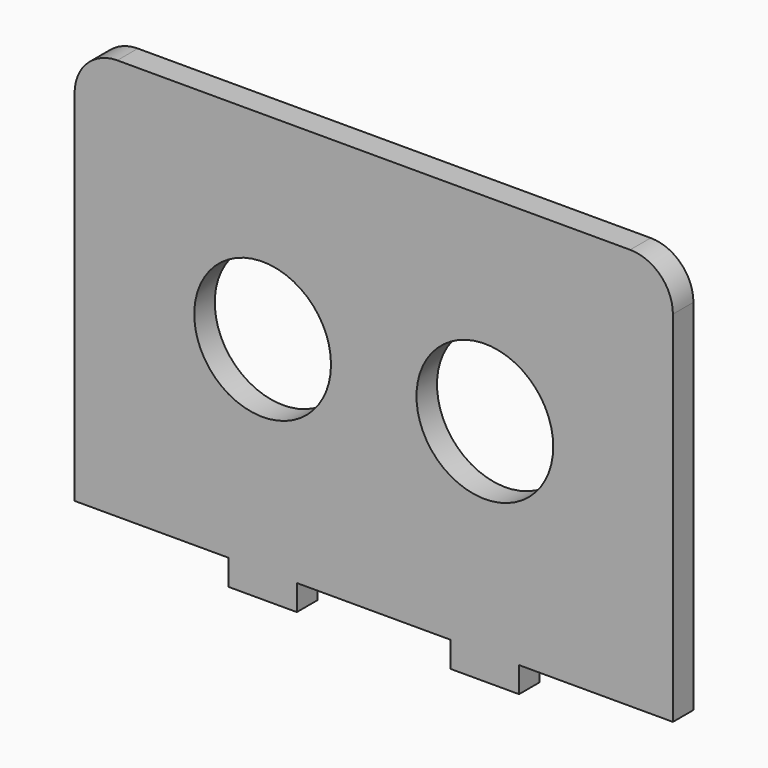
from build123d import *

# Parameters (mm, degrees)
F0_R     = 8
F1_DEPTH = 3
F2_DEPTH = 25


with BuildPart() as f1:
    # F0 (on Front) → F1 (new body)
    with BuildSketch(Plane.XZ):
        with BuildLine():
            Line((26.000001, 23.203813), (-33.999999, 23.203813))
            ThreePointArc((-33.999999, 23.203813), (-37.535533, 21.739347), (-38.999999, 18.203813))
            Line((-38.999999, 18.203813), (-38.999999, -23.796187))
            Line((-38.999999, -23.796187), (-20.999999, -23.796187))
            Line((-20.999999, -23.796187), (-20.999999, -26.796187))
            Line((-20.999999, -26.796187), (-12.999999, -26.796187))
            Line((-12.999999, -26.796187), (-12.999999, -23.796187))
            Line((-12.999999, -23.796187), (5.000001, -23.796187))
            Line((5.000001, -23.796187), (5.000001, -26.796187))
            Line((5.000001, -26.796187), (13.000001, -26.796187))
            Line((13.000001, -26.796187), (13.000001, -23.796187))
            Line((13.000001, -23.796187), (31.000001, -23.796187))
            Line((31.000001, -23.796187), (31.000001, 18.203813))
            ThreePointArc((31.000001, 18.203813), (29.535535, 21.739347), (26.000001, 23.203813))
        make_face()
        with Locations((-17, 0)):
            Circle(F0_R, mode=Mode.SUBTRACT)
        with Locations((9, 0)):
            Circle(F0_R, mode=Mode.SUBTRACT)
    extrude(amount=F1_DEPTH)


with BuildPart() as f2:
    # F0 (on Front) → F2 (new body)
    with BuildSketch(Plane.XZ):
        with BuildLine():
            Line((26.000001, 23.203813), (-33.999999, 23.203813))
            ThreePointArc((-33.999999, 23.203813), (-37.535533, 21.739347), (-38.999999, 18.203813))
            Line((-38.999999, 18.203813), (-38.999999, -23.796187))
            Line((-38.999999, -23.796187), (-20.999999, -23.796187))
            Line((-20.999999, -23.796187), (-20.999999, -26.796187))
            Line((-20.999999, -26.796187), (-12.999999, -26.796187))
            Line((-12.999999, -26.796187), (-12.999999, -23.796187))
            Line((-12.999999, -23.796187), (5.000001, -23.796187))
            Line((5.000001, -23.796187), (5.000001, -26.796187))
            Line((5.000001, -26.796187), (13.000001, -26.796187))
            Line((13.000001, -26.796187), (13.000001, -23.796187))
            Line((13.000001, -23.796187), (31.000001, -23.796187))
            Line((31.000001, -23.796187), (31.000001, 18.203813))
            ThreePointArc((31.000001, 18.203813), (29.535535, 21.739347), (26.000001, 23.203813))
        make_face()
        with Locations((-17, 0)):
            Circle(F0_R, mode=Mode.SUBTRACT)
        with Locations((9, 0)):
            Circle(F0_R, mode=Mode.SUBTRACT)
    extrude(amount=F2_DEPTH)


solid = f1.part
